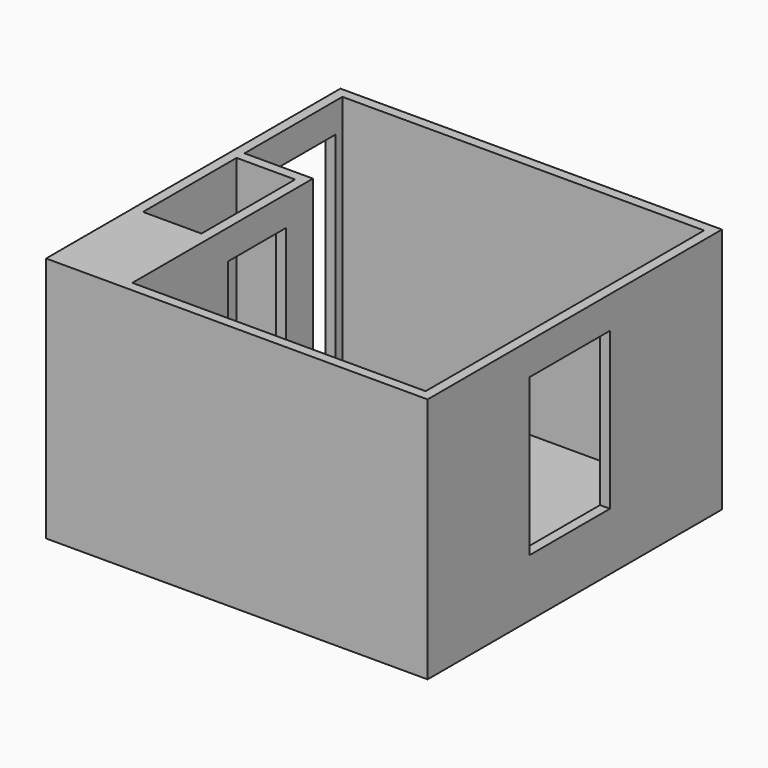
from build123d import *

# Parameters (mm, degrees)
F0_W      = 3911.6
F0_H      = 3771.9
F1_DEPTH  = 2425.7
F2_W      = 3911.6
F2_H      = 3771.9
F3_DEPTH  = 101.6
F4_W      = 895.35
F4_H      = 2120.9
F5_DEPTH  = 101.601
F6_W      = 1028.7
F6_H      = 1606.55
F7_DEPTH  = 101.601
F8_W      = 739.775
F8_H      = 2120.9
F9_DEPTH  = 101.6
F10_W     = 600.075
F10_H     = 1200.15
F11_DEPTH = 2425.7


with BuildPart() as f1:
    # F0 (on Top) → F1 (new body)
    with BuildSketch(Plane.XY):
        with Locations((1854.2, 1784.35)):
            Rectangle(F0_W, F0_H)
        Polygon((3708.4, 0), (701.675, 0), (701.675, 2314.575), (0, 2314.575), (0, 3568.7), (3708.4, 3568.7), align=None, mode=Mode.SUBTRACT)
    extrude(amount=F1_DEPTH)

    # F2 (on face) → F3 (join)
    with BuildSketch(Plane(origin=(0, 0, 0), x_dir=(1, 0, 0), z_dir=(0, 0, -1))):
        with Locations((1854.2, -1784.35)):
            Rectangle(F2_W, F2_H)
    extrude(amount=F3_DEPTH)

    # F4 (on face) → F5 (cut, through all)
    with BuildSketch(Plane.YZ):
        with Locations((3032.125, 1060.45)):
            Rectangle(F4_W, F4_H)
    extrude(amount=-F5_DEPTH, mode=Mode.SUBTRACT)

    # F6 (on face) → F7 (cut, through all)
    with BuildSketch(Plane(origin=(3708.4, 0, 0), x_dir=(0, -1, 0), z_dir=(-1, 0, 0))):
        with Locations((-1720.85, 1292.225)):
            Rectangle(F6_W, F6_H)
    extrude(amount=-F7_DEPTH, mode=Mode.SUBTRACT)

    # F8 (on face) → F9 (cut)
    with BuildSketch(Plane.YZ.offset(701.675)):
        with Locations((1598.6125, 1060.45)):
            Rectangle(F8_W, F8_H)
    extrude(amount=-F9_DEPTH, mode=Mode.SUBTRACT)

    # F10 (on face) → F11 (cut, through all)
    with BuildSketch(Plane.XY.offset(2425.7)):
        with Locations((300.0375, 1612.9)):
            Rectangle(F10_W, F10_H)
    extrude(amount=-F11_DEPTH, mode=Mode.SUBTRACT)


solid = f1.part
